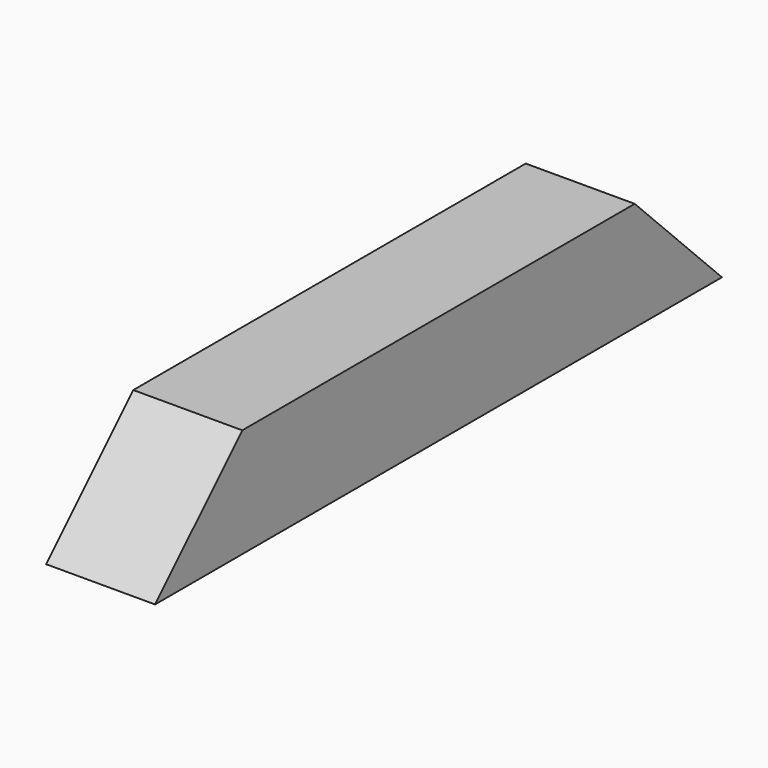
from build123d import *

# Parameters (mm, degrees)
F0_W     = 101.6
F0_H     = 660.4
F1_DEPTH = 101.6
F3_DEPTH = 101.6


with BuildPart() as f1:
    # F0 (on Top) → F1 (new body)
    with BuildSketch(Plane.XY):
        Rectangle(F0_W, F0_H)
    extrude(amount=F1_DEPTH)

    # F2 (on face) → F3 (cut)
    with BuildSketch(Plane.YZ.offset(50.8)):
        Polygon((-330.2, 101.6), (-330.2, 0), (-228.6, 101.6), align=None)
        Polygon((228.6, 101.6), (330.2, 0), (330.2, 101.6), align=None)
    extrude(amount=-F3_DEPTH, mode=Mode.SUBTRACT)


solid = f1.part
